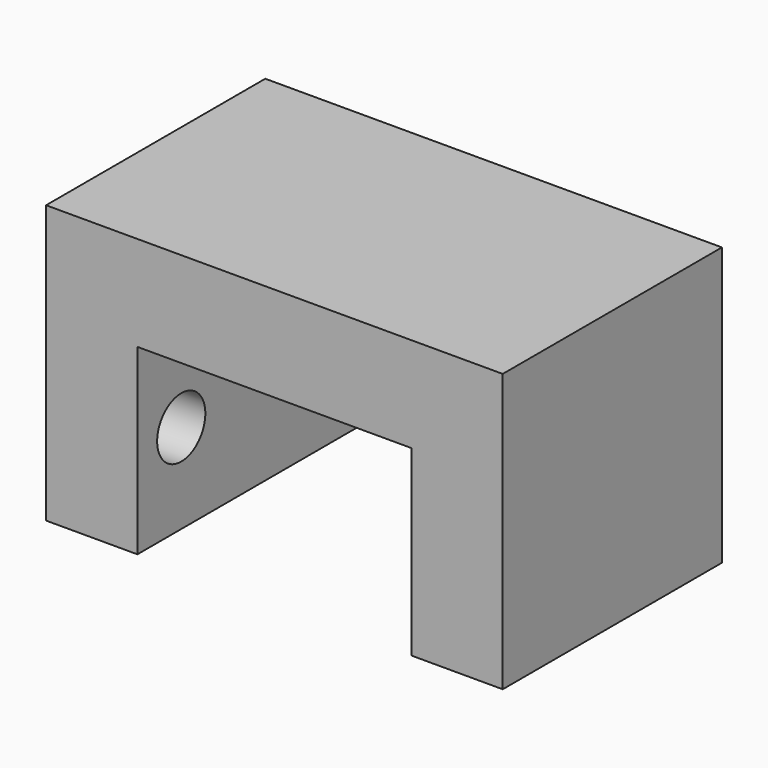
from build123d import *

# Parameters (mm, degrees)
F1_DEPTH = 7.5
F3_D     = 3.3
F3_DEPTH = 14.1
F3_TIP   = 0.9914200214


with BuildPart() as f1:
    # F0 (on Front) → F1 (new body, symmetric)
    with BuildSketch(Plane.XZ):
        Polygon((12.5, 0), (-12.5, 0), (-12.5, -15.2), (-7.5, -15.2), (-7.5, -5.2), (7.5, -5.2), (7.5, -15.2), (12.5, -15.2), align=None)
    extrude(amount=F1_DEPTH, both=True)

    # F3 (one way)
    with BuildSketch(Plane.YZ):
        with Locations((4.5, -10.3), (-4.5, -10.3)):
            Circle(F3_D / 2)
    extrude(amount=-F3_DEPTH, mode=Mode.SUBTRACT)
    with Locations(Plane.YZ):
        with Locations((4.5, -10.3), (-4.5, -10.3)):
            with Locations((0, 0, -(F3_DEPTH + F3_TIP / 2))):  # 118° drill point
                Cone(0, F3_D / 2, F3_TIP, mode=Mode.SUBTRACT)


solid = f1.part
